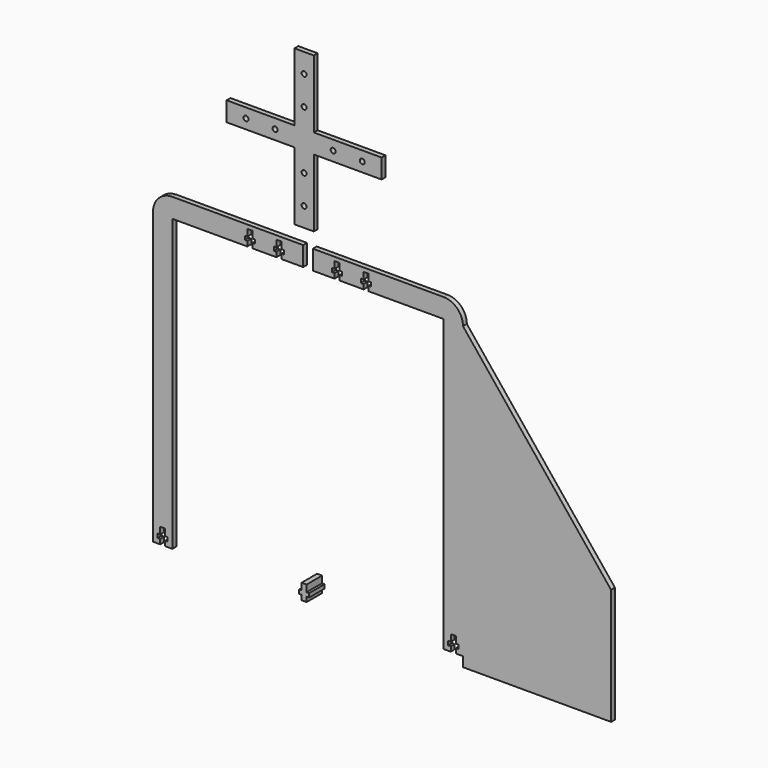
from build123d import *

# Parameters (mm, degrees)
F3_DEPTH  = 6.35
F4_DEPTH  = 3.175
F13_DEPTH = 3.175
F14_R     = 1.63195
F15_DEPTH = 3.175


with BuildPart() as f3:
    # F2 (on Front) → F3 (new body, symmetric)
    with BuildSketch(Plane.XZ):
        Polygon((-1.63195, 0), (0, 0), (1.63195, 0), (1.63195, 3.175), (3.302, 3.175), (3.302, 5.715), (1.63195, 5.715), (1.63195, 10.16), (0, 10.16), (-1.63195, 10.16), (-1.63195, 5.715), (-3.302, 5.715), (-3.302, 3.175), (-1.63195, 3.175), align=None)
    extrude(amount=F3_DEPTH, both=True)


with BuildPart() as f4:
    # F1 (on Front) → F4 (new body)
    with BuildSketch(Plane.XZ):
        with BuildLine():
            ThreePointArc((-88.9, 203.2), (-97.880256, 199.480256), (-101.6, 190.5))
            Line((-101.6, 190.5), (-101.6, 0))
            Line((-101.6, 0), (-88.9, 0))
            Line((-88.9, 0), (-88.9, 177.8))
            Line((-88.9, 177.8), (-88.9, 190.5))
            Line((-88.9, 190.5), (-76.2, 190.5))
            Line((-76.2, 190.5), (-3.175, 190.5))
            Line((-3.175, 190.5), (-3.175, 203.2))
            Line((-3.175, 203.2), (-88.9, 203.2))
        make_face()
    extrude(amount=F4_DEPTH)


with BuildPart() as f5_1:
    # F5: copy of F3
    add(f3.part.moved(Location((-95.25, 0, 0))))


with BuildPart() as f4_1:
    add(f4.part)

    # F6: cut F5_1
    add(f5_1.part, mode=Mode.SUBTRACT)


with BuildPart() as f7_1:
    # F7: copy of F3
    add(f3.part.moved(Location((-19.05, 0, 190.5))))


with BuildPart() as f4_2:
    add(f4_1.part)

    # F8: cut F7_1
    add(f7_1.part, mode=Mode.SUBTRACT)


with BuildPart() as f9_1:
    # F9: copy of F3
    add(f3.part.moved(Location((-38.1, 0, 190.5))))


with BuildPart() as f4_3:
    add(f4_2.part)

    # F10: cut F9_1
    add(f9_1.part, mode=Mode.SUBTRACT)


with BuildPart() as f11_1:
    # F11: instance of F4
    add(f4_3.part.mirror(Plane.YZ))

    # F12 (on face) → F13 (join)
    with BuildSketch(Plane.XZ.offset(3.175)):
        Polygon((198.724285, 69.85), (101.6, 190.5), (101.6, 0), (101.6, -6.35), (198.724285, -6.35), (198.724285, 0), align=None)
    extrude(amount=-F13_DEPTH)


with BuildPart() as f15:
    # F14 (on face) → F15 (new body)
    with BuildSketch(Plane.XZ.offset(3.175)):
        Polygon((6.35, 259.889454), (0, 259.889454), (-6.35, 259.889454), (-6.35, 215.439454), (6.35, 215.439454), align=None)
        with Locations((0, 228.139454)):
            Circle(F14_R, mode=Mode.SUBTRACT)
        with Locations((0, 247.189454)):
            Circle(F14_R, mode=Mode.SUBTRACT)
        Polygon((-50.8, 259.889454), (-6.35, 259.889454), (-6.35, 266.239454), (-6.35, 272.589454), (-50.8, 272.589454), align=None)
        with Locations((-38.1, 266.239454)):
            Circle(F14_R, mode=Mode.SUBTRACT)
        with Locations((-19.05, 266.239454)):
            Circle(F14_R, mode=Mode.SUBTRACT)
        Polygon((-6.35, 259.889454), (0, 259.889454), (6.35, 259.889454), (6.35, 266.239454), (6.35, 272.589454), (0, 272.589454), (-6.35, 272.589454), (-6.35, 266.239454), align=None)
        Polygon((6.35, 266.239454), (6.35, 259.889454), (50.8, 259.889454), (50.8, 272.589454), (6.35, 272.589454), align=None)
        with Locations((19.05, 266.239454)):
            Circle(F14_R, mode=Mode.SUBTRACT)
        with Locations((38.1, 266.239454)):
            Circle(F14_R, mode=Mode.SUBTRACT)
        Polygon((-6.35, 317.039454), (-6.35, 272.589454), (0, 272.589454), (6.35, 272.589454), (6.35, 317.039454), align=None)
        with Locations((0, 285.289454)):
            Circle(F14_R, mode=Mode.SUBTRACT)
        with Locations((0, 304.339454)):
            Circle(F14_R, mode=Mode.SUBTRACT)
    extrude(amount=F15_DEPTH)


solid = Compound([f3.part, f4_3.part, f11_1.part, f15.part])
